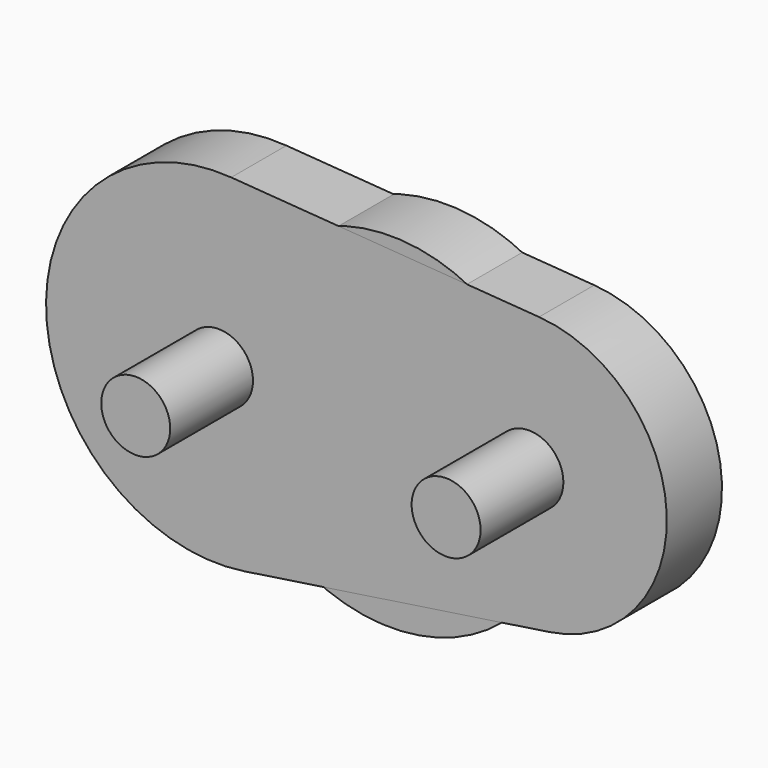
from build123d import *

# Parameters (mm, degrees)
F0_R        = 25
F0_R_2      = 5
F0_R_3      = 2.5
F1_DEPTH    = 25
F1_FACE_R   = 25
F1_FACE_R_2 = 5
F1_FACE_R_3 = 2.5
F2_DEPTH    = 12.9
F3_DEPTH    = 15
F4_R        = 20
F4_R_2      = 5
F4_R_3      = 2.5
F5_DEPTH    = 25
F5_FACE_R   = 20
F5_FACE_R_2 = 5
F5_FACE_R_3 = 2.5
F6_DEPTH    = 15
F7_R        = 5
F8_DEPTH    = 25
F9_DEPTH    = 10


with BuildPart() as f1:
    # F0 (on Front) → F1 (new body)
    with BuildSketch(Plane.XZ):
        Circle(F0_R)
        Circle(F0_R_2, mode=Mode.SUBTRACT)
        with Locations((0, 17)):
            Circle(F0_R_3, mode=Mode.SUBTRACT)
    extrude(amount=F1_DEPTH)

    # F1_face (on face) → F2 (join)
    with BuildSketch(Plane(origin=(0, -25, -0.178947), x_dir=(1, 0, 0), z_dir=(0, -1, 0))):
        with Locations((0, 0.178947)):
            Circle(F1_FACE_R)
        with Locations((0, 0.178947)):
            Circle(F1_FACE_R_2, mode=Mode.SUBTRACT)
        with Locations((0, 17.178947)):
            Circle(F1_FACE_R_3, mode=Mode.SUBTRACT)
    extrude(amount=-F2_DEPTH)

    # F1_face (on face) → F3 (cut)
    with BuildSketch(Plane(origin=(0, -25, -0.178947), x_dir=(1, 0, 0), z_dir=(0, -1, 0))):
        with Locations((0, 0.178947)):
            Circle(F1_FACE_R)
        with Locations((0, 0.178947)):
            Circle(F1_FACE_R_2, mode=Mode.SUBTRACT)
        with Locations((0, 17.178947)):
            Circle(F1_FACE_R_3, mode=Mode.SUBTRACT)
    extrude(amount=-F3_DEPTH, mode=Mode.SUBTRACT)


with BuildPart() as f5:
    # F4 (on Front) → F5 (new body)
    with BuildSketch(Plane.XZ):
        Circle(F4_R)
        Circle(F4_R_2, mode=Mode.SUBTRACT)
        with Locations((0, 15)):
            Circle(F4_R_3, mode=Mode.SUBTRACT)
    extrude(amount=F5_DEPTH)

    # F5_face (on face) → F6 (cut)
    with BuildSketch(Plane(origin=(0, -25, -0.254237), x_dir=(1, 0, 0), z_dir=(0, -1, 0))):
        with Locations((0, 0.254237)):
            Circle(F5_FACE_R)
        with Locations((0, 0.254237)):
            Circle(F5_FACE_R_2, mode=Mode.SUBTRACT)
        with Locations((0, 15.254237)):
            Circle(F5_FACE_R_3, mode=Mode.SUBTRACT)
    extrude(amount=-F6_DEPTH, mode=Mode.SUBTRACT)


with BuildPart() as f8:
    # F7 (on Front) → F8 (new body)
    with BuildSketch(Plane.XZ):
        with Locations((20, 1.686059)):
            Circle(F7_R)
        with Locations((-25, 0)):
            Circle(F7_R)
    extrude(amount=F8_DEPTH)


with BuildPart() as f9:
    # F7 (on Front) → F9 (new body)
    with BuildSketch(Plane.XZ):
        with BuildLine():
            Line((21.474903, 21.631601), (-23.156371, 24.931928))
            ThreePointArc((-23.156371, 24.931928), (-49.98247, -0.936043), (-21.295862, -24.724064))
            Line((-21.295862, -24.724064), (22.963311, -18.093193))
            ThreePointArc((22.963311, -18.093193), (39.985976, 2.434893), (21.474903, 21.631601))
        make_face()
        with Locations((-25, 0)):
            Circle(F7_R, mode=Mode.SUBTRACT)
        with Locations((20, 1.686059)):
            Circle(F7_R, mode=Mode.SUBTRACT)
    extrude(amount=F9_DEPTH)


solid = Compound([f1.part, f5.part, f8.part, f9.part])
